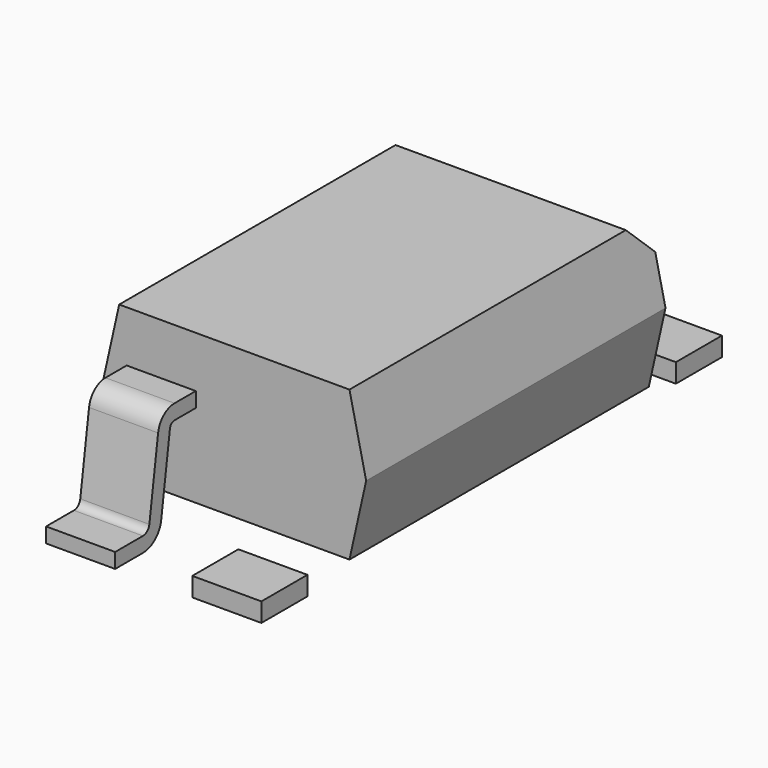
from build123d import *

# Parameters (mm, degrees)
SKETCH003_W  = 1.2
SKETCH003_H  = 1
PAD001_DEPTH = 0.33
SKETCH002_W  = 1.2
SKETCH002_H  = 0.26
PAD_DEPTH    = 3.25
CHAMFER_SIZE = 0.5


with BuildPart() as pins_pad:
    # Sketch003 → Pad001 (new body)
    with BuildSketch(Plane.XY):
        with Locations((1.27, -4.5)):
            Rectangle(SKETCH003_W, SKETCH003_H)
        with Locations((1.27, 4.5)):
            Rectangle(SKETCH003_W, SKETCH003_H)
        with Locations((-1.27, 4.5)):
            Rectangle(SKETCH003_W, SKETCH003_H)
    extrude(amount=PAD001_DEPTH)


with BuildPart() as pin1_sweep:
    # Sweep: sweep along a path in Sketch001
    with BuildLine(Plane.YZ) as sweep_path:
        Line((-5, 0), (-4.39593, 0))
        ThreePointArc((-4.39593, 0), (-4.133989, 0.097694), (-4, 0.343059))
        Line((-4, 0.343059), (-3.81, 1.664238))
        ThreePointArc((-3.81, 1.664238), (-3.776502, 1.725577), (-3.711019, 1.75))
        Line((-3.711019, 1.75), (-2.711019, 1.75))
    # Sketch002 → Sweep (sweep)
    with BuildSketch(Plane.XZ.offset(5)):
        with Locations((-1.27, 0.13)):
            Rectangle(SKETCH002_W, SKETCH002_H)
    sweep(path=sweep_path.line)


with BuildPart() as fusion:
    # Sketch → Pad (new body, symmetric)
    with BuildSketch(Plane(origin=(0, 0, 0), x_dir=(-1, 0, 0), z_dir=(0, 1, 0))):
        Polygon((-2, 2.9), (-2.29, 1.6), (-2, 0.3), (2, 0.3), (2.29, 1.6), (2, 2.9), align=None)
    extrude(amount=PAD_DEPTH, both=True)

    # Chamfer
    chamfer_edges = [fusion.edges().sort_by_distance(p)[0] for p in [
        (0, 3.25, 2.9),
    ]]
    chamfer(chamfer_edges, length=CHAMFER_SIZE)

    # Fusion: union Pins_Pad, Pin1_Sweep
    add(pins_pad.part)
    add(pin1_sweep.part)


solid = fusion.part
